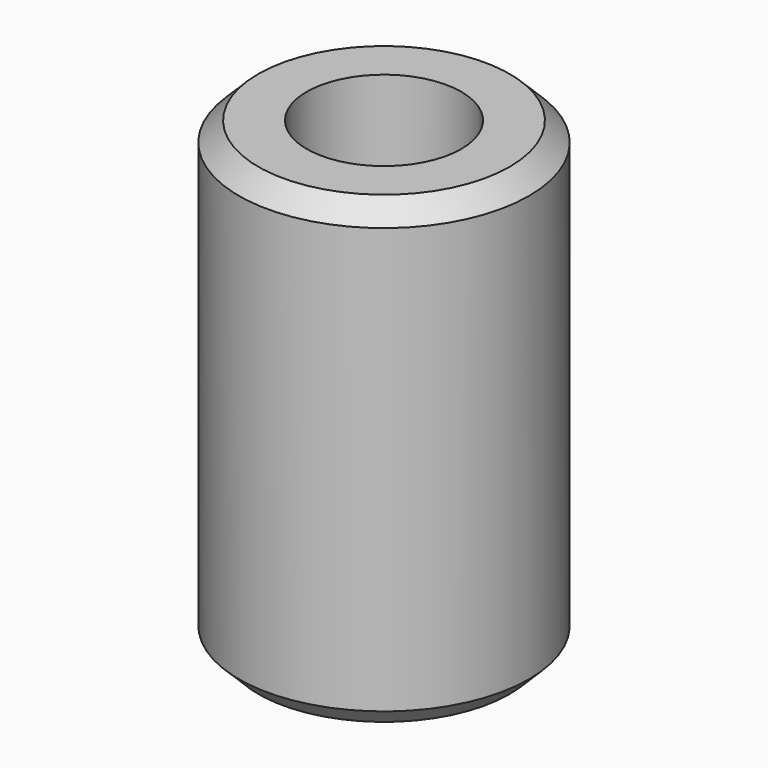
from build123d import *

# Parameters (mm, degrees)
SKETCH_R        = 7.5
SKETCH_R_2      = 4
PAD_DEPTH       = 24
CHAMFER_SIZE    = 1
CHAMFER001_SIZE = 1


with BuildPart() as part:
    # Sketch → Pad (new body)
    with BuildSketch(Plane.XY):
        Circle(SKETCH_R)
        Circle(SKETCH_R_2, mode=Mode.SUBTRACT)
    extrude(amount=PAD_DEPTH)

    # Chamfer
    chamfer_edges = [part.edges().sort_by_distance(p)[0] for p in [
        (-7.5, 0, 24),
    ]]
    chamfer(chamfer_edges, length=CHAMFER_SIZE)

    # Chamfer001
    chamfer001_edges = [part.edges().sort_by_distance(p)[0] for p in [
        (-7.5, 0, 0),
    ]]
    chamfer(chamfer001_edges, length=CHAMFER001_SIZE)


solid = part.part
